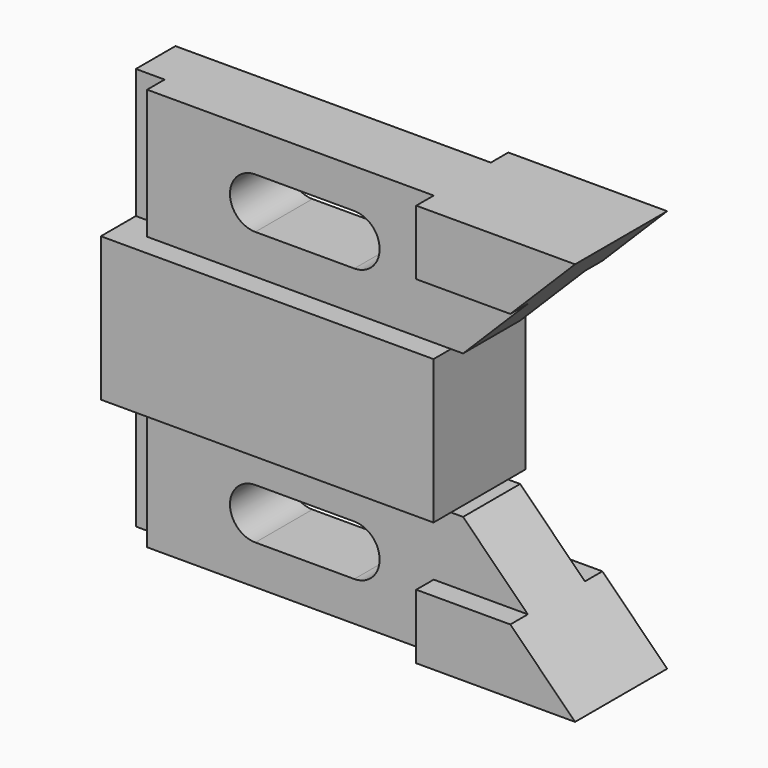
from build123d import *

# Parameters (mm, degrees)
F1_DEPTH      = 12.7
F2_DEPTH      = 7.874
F0_W          = 6.35
F0_H          = 28.575
F3_DEPTH      = 3.048
F3_DEPTH_BACK = 7.874
F4_DEPTH      = 12.7


with BuildPart() as f1:
    # F0 (on Front) → F1 (new body, symmetric)
    with BuildSketch(Plane.XZ):
        Polygon((69.596, 14.2875), (90.3605, 14.2875), (104.648, 28.575), (69.596, 28.575), align=None)
    extrude(amount=F1_DEPTH, both=True)

    # F0 (on Front) → F2 (join, symmetric)
    with BuildSketch(Plane.XZ):
        Polygon((73.406, 0), (76.073, 0), (90.3605, 14.2875), (69.596, 14.2875), (69.596, 28.575), (6.35, 28.575), (6.35, 0), align=None)
        with BuildLine():
            ThreePointArc((52.07, 19.8755), (57.658, 14.2875), (52.07, 8.6995))
            Line((52.07, 8.6995), (30.226, 8.6995))
            ThreePointArc((30.226, 8.6995), (24.638, 14.2875), (30.226, 19.8755))
            Line((30.226, 19.8755), (52.07, 19.8755))
        make_face(mode=Mode.SUBTRACT)
    extrude(amount=F2_DEPTH, both=True)

    # F0 (on Front) → F3 (join, two sides)
    with BuildSketch(Plane.XZ) as f3_sk:
        with Locations((3.175, 14.2875)):
            Rectangle(F0_W, F0_H)
    extrude(amount=F3_DEPTH)
    extrude(f3_sk.sketch, amount=-F3_DEPTH_BACK)

    # F0 (on Front) → F4 (join, symmetric)
    with BuildSketch(Plane.XZ):
        Polygon((73.406, -15.875), (73.406, 0), (6.35, 0), (0, 0), (0, -15.875), align=None)
    extrude(amount=F4_DEPTH, both=True)

    # F5: F1 across face


with BuildPart() as f1_1:
    add(f1.part)
    add(f1.part.mirror(Plane(origin=(36.703, 0, -15.875), x_dir=(1, 0, 0), z_dir=(0, 0, -1))))


solid = f1_1.part
